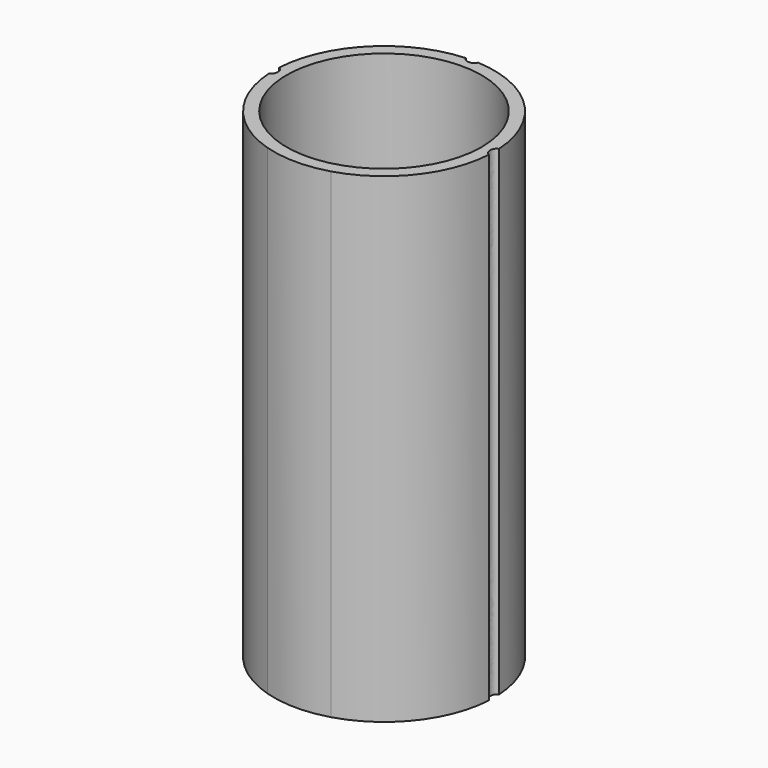
from build123d import *

# Parameters (mm, degrees)
F1_DEPTH = 120


with BuildPart() as f1:
    # F0 (on Top) → F1 (new body)
    with BuildSketch(Plane.XY):
        with BuildLine():
            add(Edge.make_bspline(
                [(-26.5, 0), (-26.5, 1.4398964502), (-27.4591288738, 1.4987466396)],
                knots=[4.7123889804, 4.7123889804, 4.7123889804, 6.2423027936, 6.2423027936, 6.2423027936], degree=2, weights=[1, 0.7214122005, 1]))
            add(Edge.make_bspline(
                [(-27.4591288738, -1.4987466396), (-26.5, -1.4398964502), (-26.5, 0)],
                knots=[3.1824751672, 3.1824751672, 3.1824751672, 4.7123889804, 4.7123889804, 4.7123889804], degree=2, weights=[1, 0.7214122005, 1]))
            ThreePointArc((-27.4591288738, -1.4987466396), (-21.6810739643, -16.9168859946), (-8.1306603774, -26.2705607445))
            ThreePointArc((-8.1306603774, -26.2705607445), (-0.1544823648, -27.4995660911), (7.835, -26.360249904))
            ThreePointArc((7.835, -26.360249904), (21.5857005766, -17.0384133833), (27.4591288738, -1.4987466396))
            add(Edge.make_bspline(
                [(27.4591288738, 1.4987466396), (26.5, 1.4398964502), (26.5, 0), (26.5, -1.4398964502), (27.4591288738, -1.4987466396)],
                knots=[0.0408825136, 0.0408825136, 0.0408825136, 1.5707963268, 1.5707963268, 3.10071014, 3.10071014, 3.10071014], degree=2, weights=[1, 0.7214122005, 1, 0.7214122005, 1]))
            ThreePointArc((27.4591288738, 1.4987466396), (19.4454364826, 19.4454364826), (1.4987466396, 27.4591288738))
            add(Edge.make_bspline(
                [(-1.4987466396, 27.4591288738), (-1.4398964502, 26.5), (0, 26.5), (1.4398964502, 26.5), (1.4987466396, 27.4591288738)],
                knots=[3.1824751672, 3.1824751672, 3.1824751672, 4.7123889804, 4.7123889804, 6.2423027936, 6.2423027936, 6.2423027936], degree=2, weights=[1, 0.7214122005, 1, 0.7214122005, 1]))
            ThreePointArc((-1.4987466396, 27.4591288738), (-19.4454364826, 19.4454364826), (-27.4591288738, 1.4987466396))
        make_face()
        with BuildLine():
            ThreePointArc((-24.35, 0), (0, 24.35), (24.35, 0))
            ThreePointArc((24.35, 0), (0, -24.35), (-24.35, 0))
        make_face(mode=Mode.SUBTRACT)
    extrude(amount=F1_DEPTH)


solid = f1.part
